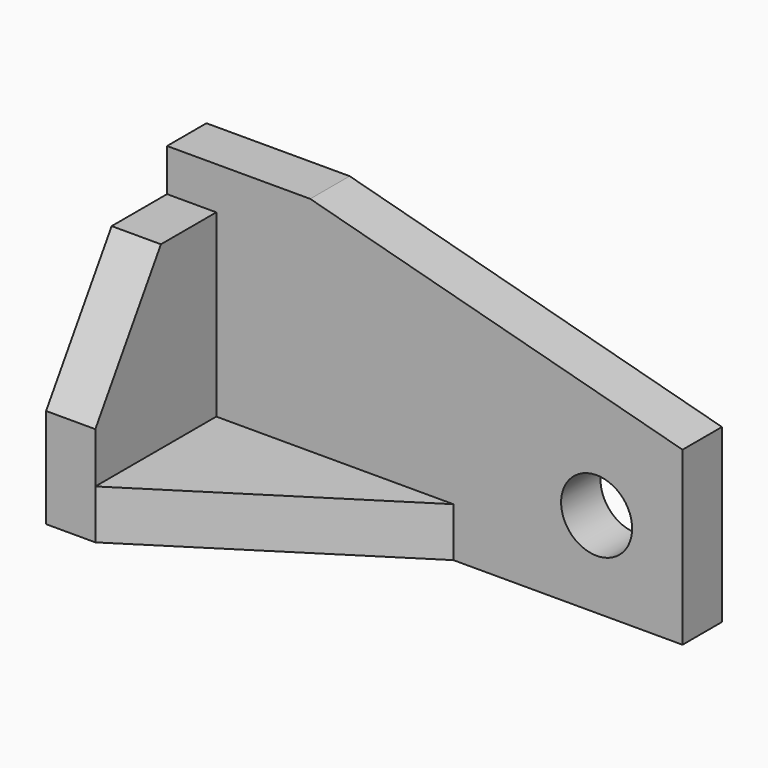
from build123d import *

# Parameters (mm, degrees)
F0_R     = 7.874
F1_DEPTH = 10.922
F3_DEPTH = 10.922
F5_DEPTH = 10.922


with BuildPart() as f1:
    # F0 (on Front) → F1 (new body)
    with BuildSketch(Plane.XZ):
        Polygon((0, 60.198), (0, 0), (114.3, 0), (114.3, 38.078794), (31.75, 60.198), align=None)
        with Locations((95.25, 19.05)):
            Circle(F0_R, mode=Mode.SUBTRACT)
    extrude(amount=F1_DEPTH)

    # F2 (on Right) → F3 (join)
    with BuildSketch(Plane.YZ):
        Polygon((-44.45, 0), (-10.922, 0), (-10.922, 50.8), (-26.272095, 50.8), (-44.45, 22.098), align=None)
    extrude(amount=F3_DEPTH)

    # F4 (on Top) → F5 (join)
    with BuildSketch(Plane.XY):
        Polygon((10.922, -10.922), (10.922, -44.45), (63.5, -10.922), align=None)
    extrude(amount=F5_DEPTH)


solid = f1.part
